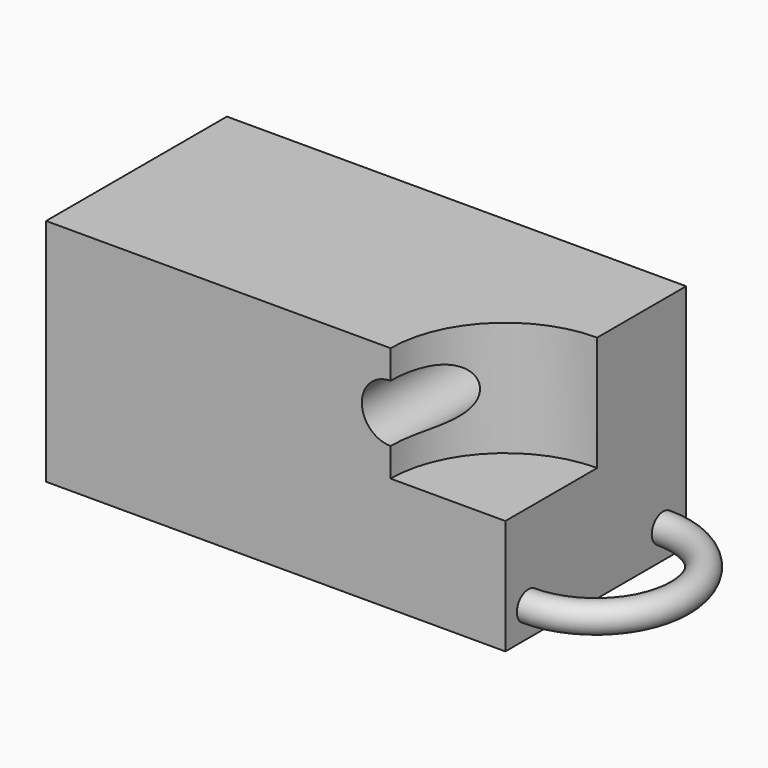
from build123d import *

# Parameters (mm, degrees)
F0_W     = 101.6
F0_H     = 50.8
F1_DEPTH = 50
F3_DEPTH = 25.4
F4_R     = 6.35
F5_DEPTH = 50.001
F6_R     = 3.175


with BuildPart() as f1:
    # F0 (on Front) → F1 (new body)
    with BuildSketch(Plane.XZ):
        with Locations((50.8, 25.4)):
            Rectangle(F0_W, F0_H)
    extrude(amount=F1_DEPTH)

    # F2 (on face) → F3 (cut)
    with BuildSketch(Plane.XY.offset(50.8)):
        with BuildLine():
            Line((101.6, -50), (101.6, -24.6))
            ThreePointArc((101.6, -24.6), (83.6394877579, -32.0394877579), (76.2, -50))
            Line((76.2, -50), (101.6, -50))
        make_face()
        with BuildLine():
            ThreePointArc((76.2, -50), (101.6, -75.4), (127, -50))
            ThreePointArc((127, -50), (119.5605122421, -32.0394877579), (101.6, -24.6))
            Line((101.6, -24.6), (101.6, -50))
            Line((101.6, -50), (76.2, -50))
        make_face()
    extrude(amount=-F3_DEPTH, mode=Mode.SUBTRACT)

    # F4 (on face) → F5 (cut, through all)
    with BuildSketch(Plane.XZ.offset(50)):
        with Locations((76.2, 38.1)):
            Circle(F4_R)
    extrude(amount=-F5_DEPTH, mode=Mode.SUBTRACT)

    # F6 (on face) → F7 (revolve)
    with BuildSketch(Plane.YZ.offset(101.6)):
        with Locations((-43.65, 6.35)):
            Circle(F6_R)
    revolve(axis=Axis((101.6, -25, 6.2950919382), (0, 0, 1)))


solid = f1.part
